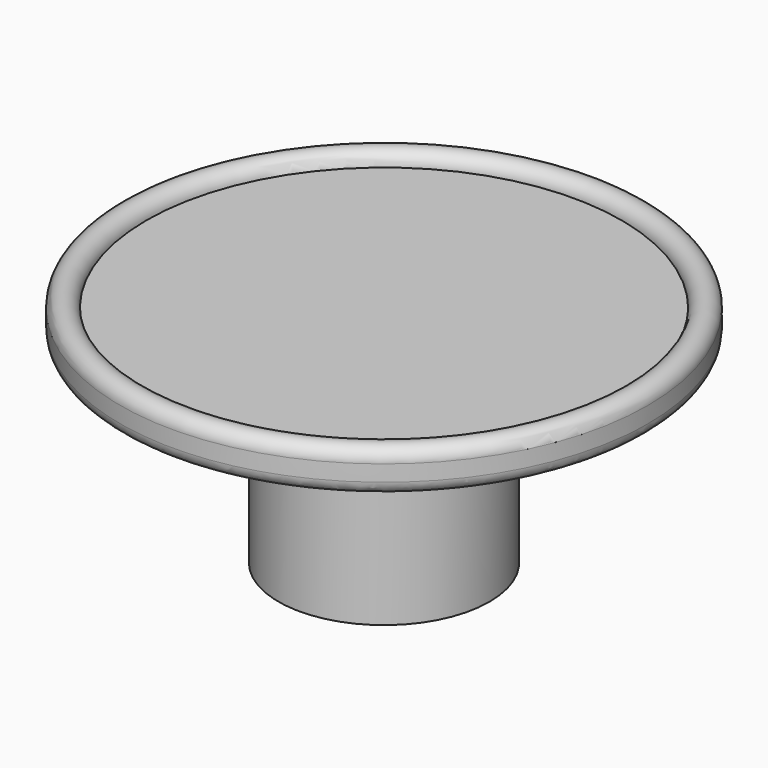
from build123d import *

# Parameters (mm, degrees)
CYLINDER_R     = 2.5
CYLINDER_DEPTH = 7
FILLET_1_R     = 5
FILLET_2_R     = 0.5


with BuildPart() as pocket:
    # Cylinder → Cylinder (new body)
    with BuildSketch(Plane.XY):
        Circle(CYLINDER_R)
    extrude(amount=CYLINDER_DEPTH)


with BuildPart() as handle:
    # Sketch → Revolution (revolve)
    with BuildSketch(Plane.XZ):
        with BuildLine():
            Line((0, 0), (4, 0))
            Line((4, 0), (4, 7))
            Line((4, 7), (8, 7))
            Line((8, 7), (10, 7.5))
            Line((10, 7.5), (10, 8.499999))
            ThreePointArc((10, 8.499999), (9.500011, 9), (9, 8.500022))
            Line((9, 8.5), (9, 8.500022))
            Line((0, 8.5), (9, 8.5))
            Line((0, 8.5), (0, 0))
        make_face()
    revolve(axis=Axis((0, 0, 0), (0, 0, 1)))

    # Fillet 1
    fillet_1_edges = [handle.edges().sort_by_distance(p)[0] for p in [
        (-8, 0, 7),
    ]]
    fillet(fillet_1_edges, radius=FILLET_1_R)

    # Fillet 2
    fillet_2_edges = [handle.edges().sort_by_distance(p)[0] for p in [
        (-10, 0, 7.5),
    ]]
    fillet(fillet_2_edges, radius=FILLET_2_R)

    # Cut: cut Pocket
    add(pocket.part, mode=Mode.SUBTRACT)


solid = handle.part
